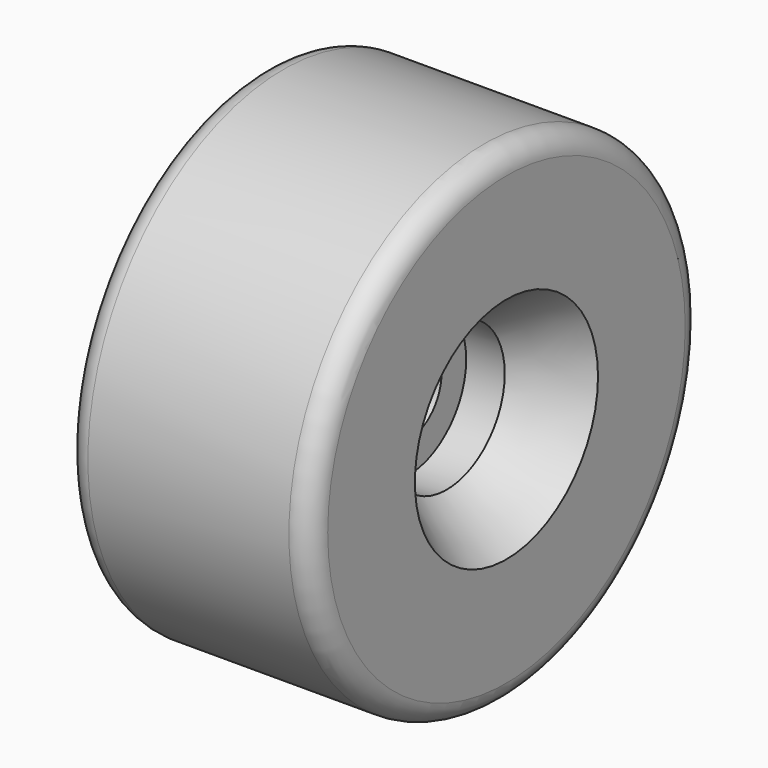
from build123d import *


with BuildPart() as f1:
    # F0 (on Top) → F1 (revolve)
    with BuildSketch(Plane.XY):
        with BuildLine():
            Line((5, -24.18787), (5, -20.135133))
            Line((5, -20.135133), (5, -17.787319))
            Line((5, -17.787319), (13, -17.787319))
            Line((13, -17.787319), (25.4, -9.104746))
            Line((25.4, -9.104746), (25.4, 13.497188))
            ThreePointArc((25.4, 13.497188), (24.003098, 16.599398), (20.846833, 17.869453))
            Line((20.846833, 17.869453), (0, 17.869453))
            Line((0, 17.869453), (-20.847, 17.869453))
            ThreePointArc((-20.847, 17.869453), (-24.003206, 16.599388), (-25.4, 13.497184))
            Line((-25.4, 13.497184), (-25.4, -9.104746))
            Line((-25.4, -9.104746), (-13, -17.787319))
            Line((-13, -17.787319), (-5, -17.787319))
            Line((-5, -17.787319), (-5, -20.135133))
            Line((-5, -20.135133), (-5, -24.18787))
            Line((-5, -24.18787), (5, -24.18787))
        make_face()
    revolve(axis=Axis((1.997764, -32.846637, 0), (1, 0, 0)))

    # F2: F1 across plane


with BuildPart() as f1_1:
    add(f1.part)
    add(f1.part.mirror(Plane.XY))


solid = f1_1.part
